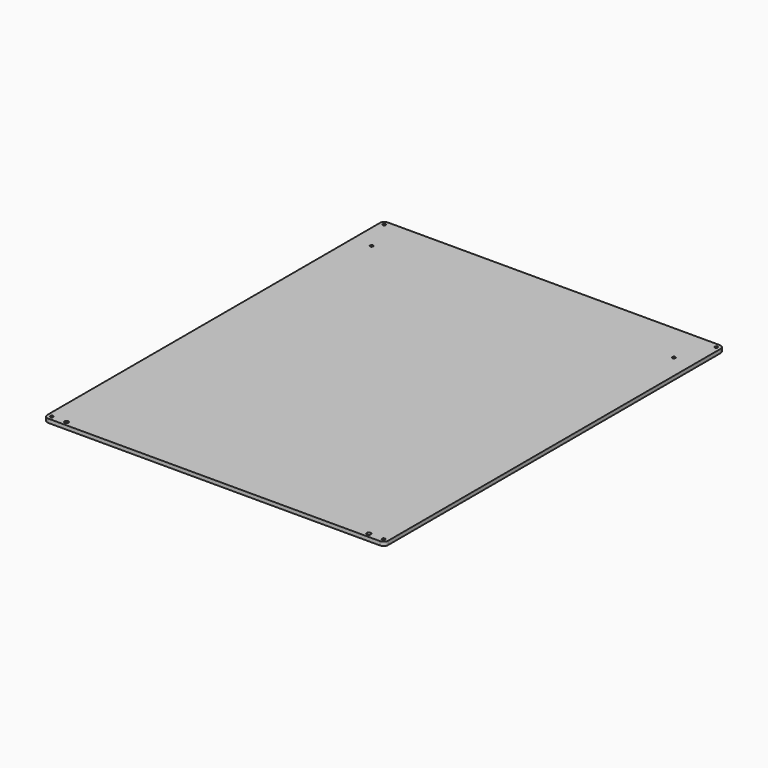
from build123d import *

# Parameters (mm, degrees)
F0_W     = 303.70272
F0_H     = 378.451567
F1_DEPTH = 3.41884
F2_R     = 3.96875
F3_R     = 1.35255
F4_DEPTH = 3.41884
F5_R     = 1.8288
F6_DEPTH = 3.41884


with BuildPart() as f1:
    # F0 (on Top) → F1 (new body)
    with BuildSketch(Plane.XY):
        with Locations((-151.85136, -189.225783)):
            Rectangle(F0_W, F0_H)
    extrude(amount=F1_DEPTH)

    # F2
    f2_edges = [f1.edges().sort_by_distance(p)[0] for p in [
        (-303.70272, 0, 1.70942),
        (-303.70272, -378.451567, 1.70942),
        (0, -378.451567, 1.70942),
        (0, 0, 1.70942),
    ]]
    fillet(f2_edges, radius=F2_R)

    # F3 (on face) → F4 (cut, through all)
    with BuildSketch(Plane.XY.offset(3.41884)):
        with Locations((-299.73397, -3.96875)):
            Circle(F3_R)
        with Locations((-3.96875, -3.96875)):
            Circle(F3_R)
        with Locations((-299.73397, -374.482817)):
            Circle(F3_R)
        with Locations((-3.96875, -374.482817)):
            Circle(F3_R)
        with Locations((-286.54629, -34.632519)):
            Circle(F3_R)
        with Locations((-17.15643, -34.632519)):
            Circle(F3_R)
    extrude(amount=-F4_DEPTH, mode=Mode.SUBTRACT)

    # F5 (on face) → F6 (cut, through all)
    with BuildSketch(Plane.XY.offset(3.41884)):
        with Locations((-286.54629, -374.482817)):
            Circle(F5_R)
        with Locations((-17.15643, -374.482817)):
            Circle(F5_R)
    extrude(amount=-F6_DEPTH, mode=Mode.SUBTRACT)


solid = f1.part
